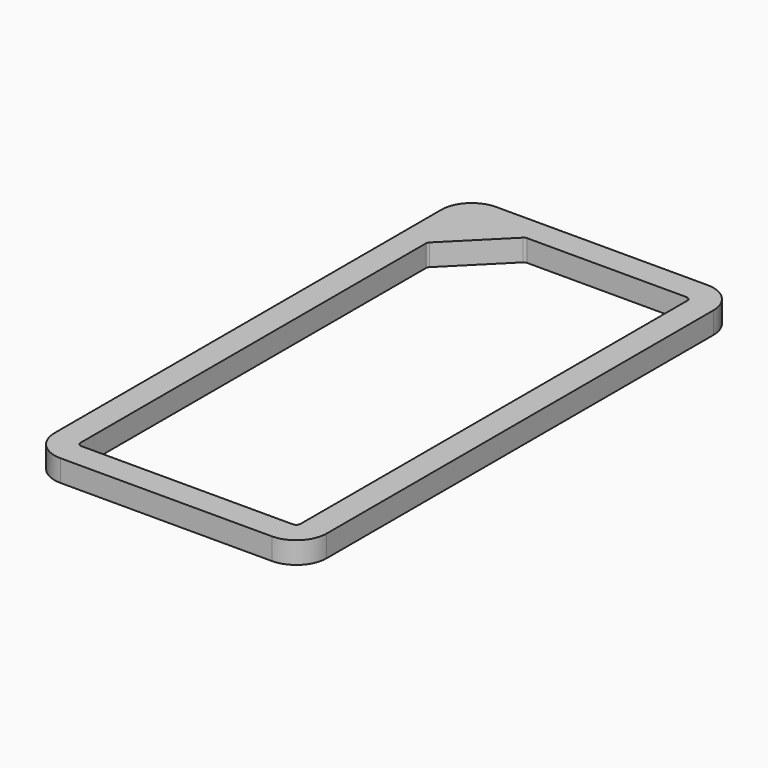
from build123d import *

# Parameters (mm, degrees)
F0_W     = 25
F0_H     = 50
F1_DEPTH = 2
F2_R     = 2.8
F3_R     = 0.4


with BuildPart() as f1:
    # F0 (on Top) → F1 (new body)
    with BuildSketch(Plane.XY):
        Rectangle(F0_W, F0_H)
        Polygon((-10.1, 17.6), (-10.1, 22.6), (-5.1, 22.6), (10.1, 22.6), (10.1, -22.6), (-10.1, -22.6), align=None, mode=Mode.SUBTRACT)
        Polygon((-5.1, 22.6), (-10.1, 22.6), (-10.1, 17.6), align=None)
    extrude(amount=F1_DEPTH)

    # F2
    f2_edges = [f1.edges().sort_by_distance(p)[0] for p in [
        (-12.5, 25, 1),
        (-12.5, -25, 1),
        (12.5, -25, 1),
        (12.5, 25, 1),
    ]]
    fillet(f2_edges, radius=F2_R)

    # F3
    f3_edges = [f1.edges().sort_by_distance(p)[0] for p in [
        (10.1, 22.6, 1),
        (-5.1, 22.6, 1),
        (-10.1, 17.6, 1),
        (-10.1, -22.6, 1),
        (10.1, -22.6, 1),
    ]]
    fillet(f3_edges, radius=F3_R)


solid = f1.part
